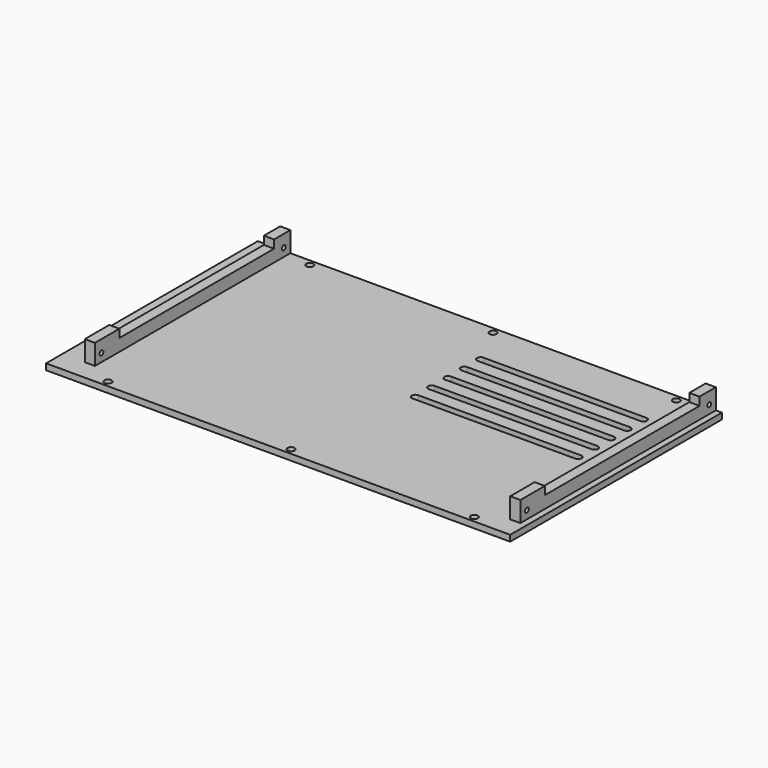
from build123d import *

# Parameters (mm, degrees)
SKETCH_W     = 228
SKETCH_H     = 130
SKETCH_R     = 1.75
PAD_DEPTH    = 3
SKETCH001_W  = 5
SKETCH001_H  = 120
PAD001_DEPTH = 10
SKETCH002_R  = 1.15
SKETCH002_W  = 95
SKETCH002_H  = 4
POCKET_DEPTH = 225


with BuildPart() as part:
    # Sketch → Pad (new body)
    with BuildSketch(Plane.XY):
        with Locations((-4, 0)):
            Rectangle(SKETCH_W, SKETCH_H)
        with Locations((-90, 62)):
            Circle(SKETCH_R, mode=Mode.SUBTRACT)
        with Locations((0, 62)):
            Circle(SKETCH_R, mode=Mode.SUBTRACT)
        with Locations((90, 62)):
            Circle(SKETCH_R, mode=Mode.SUBTRACT)
        with Locations((-90, -62)):
            Circle(SKETCH_R, mode=Mode.SUBTRACT)
        with Locations((0, -62)):
            Circle(SKETCH_R, mode=Mode.SUBTRACT)
        with Locations((90, -62)):
            Circle(SKETCH_R, mode=Mode.SUBTRACT)
        with BuildLine():
            ThreePointArc((10.059248, 43.499956), (8.309248, 41.749956), (10.059248, 39.999956))
            Line((10.059248, 39.999956), (90.059248, 39.999956))
            ThreePointArc((90.059248, 39.999956), (91.809248, 41.749956), (90.059248, 43.499956))
            Line((10.059248, 43.499956), (90.059248, 43.499956))
        make_face(mode=Mode.SUBTRACT)
        with BuildLine():
            ThreePointArc((10.044436, 33.499967), (8.294436, 31.749967), (10.044436, 29.999967))
            Line((10.044436, 29.999967), (90.044436, 29.999967))
            ThreePointArc((90.044436, 29.999967), (91.794436, 31.749967), (90.044436, 33.499967))
            Line((10.044436, 33.499967), (90.044436, 33.499967))
        make_face(mode=Mode.SUBTRACT)
        with BuildLine():
            ThreePointArc((10.029624, 23.499978), (8.279624, 21.749978), (10.029624, 19.999978))
            Line((10.029624, 19.999978), (90.029624, 19.999978))
            ThreePointArc((90.029624, 19.999978), (91.779624, 21.749978), (90.029624, 23.499978))
            Line((10.029624, 23.499978), (90.029624, 23.499978))
        make_face(mode=Mode.SUBTRACT)
        with BuildLine():
            ThreePointArc((10.014812, 13.499989), (8.264812, 11.749989), (10.014812, 9.999989))
            Line((10.014812, 9.999989), (90.014812, 9.999989))
            ThreePointArc((90.014812, 9.999989), (91.764812, 11.749989), (90.014812, 13.499989))
            Line((10.014812, 13.499989), (90.014812, 13.499989))
        make_face(mode=Mode.SUBTRACT)
        with BuildLine():
            ThreePointArc((10, 3.5), (8.25, 1.75), (10, 0))
            Line((10, 0), (90, 0))
            ThreePointArc((90, 0), (91.75, 1.75), (90, 3.5))
            Line((10, 3.5), (90, 3.5))
        make_face(mode=Mode.SUBTRACT)
    extrude(amount=PAD_DEPTH)

    # Sketch001 → Pad001 (join)
    with BuildSketch(Plane.XY.offset(3)):
        with Locations((104.5, 5)):
            Rectangle(SKETCH001_W, SKETCH001_H)
        with Locations((-104.5, 5)):
            Rectangle(SKETCH001_W, SKETCH001_H)
    extrude(amount=PAD001_DEPTH)

    # Sketch002 → Pocket (cut)
    with BuildSketch(Plane.YZ.offset(107)):
        with Locations((-51, 7)):
            Circle(SKETCH002_R)
        with Locations((61, 7)):
            Circle(SKETCH002_R)
        with Locations((7.5, 11)):
            Rectangle(SKETCH002_W, SKETCH002_H)
    extrude(amount=-POCKET_DEPTH, mode=Mode.SUBTRACT)


solid = part.part
